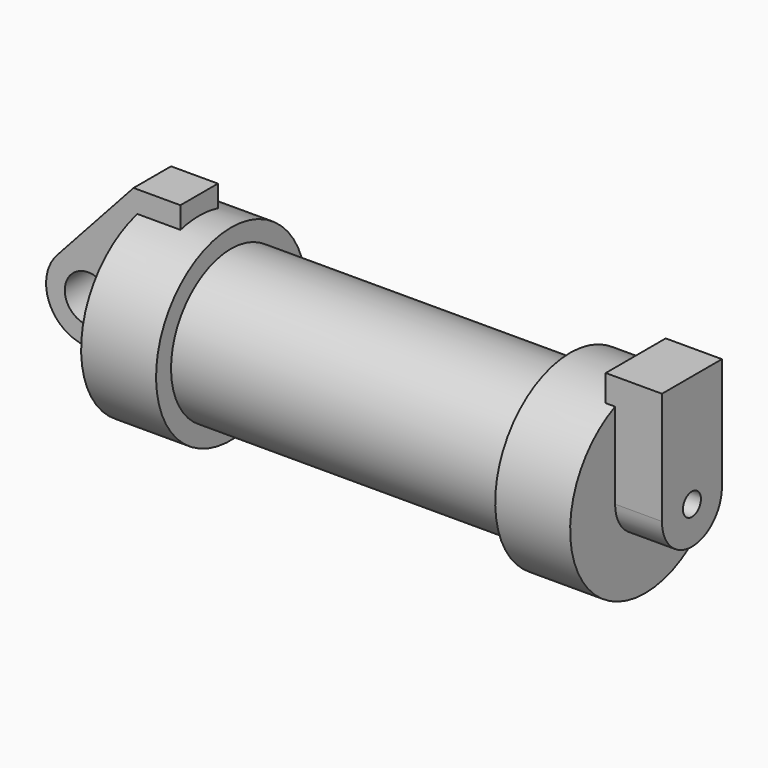
from build123d import *

# Parameters (mm, degrees)
F0_W          = 5.842
F0_H          = 12.7
F0_R          = 3.175
F1_DEPTH      = 3.175
F3_R          = 1.524
F4_DEPTH      = 1.27
F4_DEPTH_BACK = 6.35
F5_DEPTH      = 56.134


with BuildPart() as f1:
    # F0 (on Front) → F1 (new body, symmetric)
    with BuildSketch(Plane.XZ):
        with BuildLine():
            Line((-0.9398, 0), (0, 0))
            Line((0, 0), (0, 12.7))
            Line((0, 12.7), (5.842, 12.7))
            Line((5.842, 12.7), (5.842, 15.24))
            Line((5.842, 15.24), (-0.508, 15.24))
            Line((-0.508, 15.24), (-10.8806298187, 3.8475430269))
            ThreePointArc((-10.8806298187, 3.8475430269), (-4.5919612295, 5.3297205562), (-0.9398, 0))
        make_face()
        with Locations((2.921, 6.35)):
            Rectangle(F0_W, F0_H)
        with BuildLine():
            Line((5.842, 0), (0, 0))
            Line((0, 0), (-0.9398, 0))
            ThreePointArc((-0.9398, 0), (-3.1957909266, -4.5493385486), (-8.1826630726, -5.5069827884))
            Line((-8.1826630726, -5.5069827884), (5.842, -9.398))
            Line((5.842, -9.398), (5.842, 0))
        make_face()
        with BuildLine():
            ThreePointArc((-8.1826630726, -5.5069827884), (-3.1957909266, -4.5493385486), (-0.9398, 0))
            ThreePointArc((-0.9398, 0), (-4.5919612295, 5.3297205562), (-10.8806298187, 3.8475430269))
            ThreePointArc((-10.8806298187, 3.8475430269), (-12.1459778134, -1.5837270034), (-8.1826630726, -5.5069827884))
        make_face()
        with Locations((-6.6548, 0)):
            Circle(F0_R, mode=Mode.SUBTRACT)
    extrude(amount=F1_DEPTH, both=True)

    # F0 (on Front) → F2 (revolve)
    with BuildSketch(Plane.XZ):
        with Locations((2.921, 6.35)):
            Rectangle(F0_W, F0_H)
        Polygon((5.842, 12.7), (5.842, 0), (66.294, 0), (66.294, 12.7), (56.134, 12.7), (56.134, 10.16), (10.16, 10.16), (10.16, 12.7), align=None)
    revolve(axis=Axis((33.147, 0, 0), (-1, 0, 0)))

    # F3 (on face) → F4 (join, two sides)
    with BuildSketch(Plane.YZ.offset(66.294)) as f4_sk:
        with BuildLine():
            ThreePointArc((-5.08, 11.6397422652), (0, 12.7), (5.08, 11.6397422652))
            Line((5.08, 11.6397422652), (5.08, 15.24))
            Line((5.08, 15.24), (-5.08, 15.24))
            Line((-5.08, 15.24), (-5.08, 11.6397422652))
        make_face()
        with BuildLine():
            ThreePointArc((-5.08, 0), (0, 5.08), (5.08, 0))
            Line((5.08, 0), (5.08, 11.6397422652))
            ThreePointArc((5.08, 11.6397422652), (0, 12.7), (-5.08, 11.6397422652))
            Line((-5.08, 11.6397422652), (-5.08, 0))
        make_face()
        with BuildLine():
            ThreePointArc((-5.08, 0), (0, -5.08), (5.08, 0))
            ThreePointArc((5.08, 0), (0, 5.08), (-5.08, 0))
        make_face()
        Circle(F3_R, mode=Mode.SUBTRACT)
    extrude(amount=-F4_DEPTH)
    extrude(f4_sk.sketch, amount=F4_DEPTH_BACK)

    # F5 (cut): a face of the model
    f5_faces = [f1.faces().sort_by_distance(p)[0] for p in [
        (66.294, 0, 0),
    ]]
    extrude(f5_faces, amount=-F5_DEPTH, mode=Mode.SUBTRACT)


solid = f1.part
